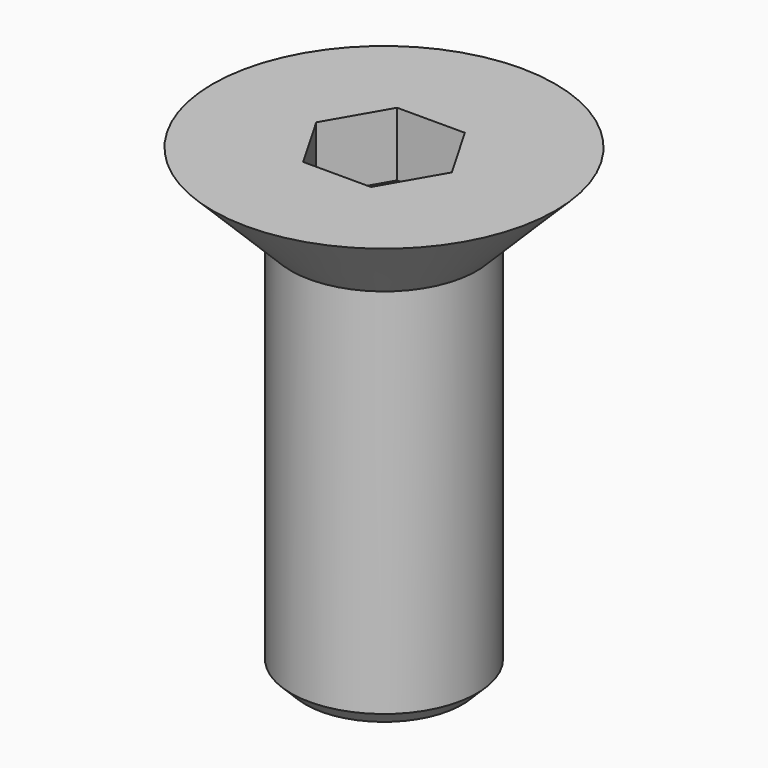
from build123d import *

# Parameters (mm, degrees)
F3_DEPTH = 1.1
F4_SIZE  = 0.25


with BuildPart() as f1:
    # F0 (on Front) → F1 (revolve)
    with BuildSketch(Plane.XZ):
        Polygon((-1.6, -4.240741), (0, -4.240741), (0, 3.759259), (-2.95, 3.759259), (-1.6, 2.409259), align=None)
    revolve(axis=Axis((0, 0, -0.240741), (0, 0, -1)))

    # F2 (on face) → F3 (cut)
    with BuildSketch(Plane.XY.offset(3.759259)):
        Polygon((0.583124, -1.01), (1.166248, 0), (0.583124, 1.01), (-0.583124, 1.01), (-1.166248, 0), (-0.583124, -1.01), align=None)
    extrude(amount=-F3_DEPTH, mode=Mode.SUBTRACT)

    # F4
    f4_edges = [f1.edges().sort_by_distance(p)[0] for p in [
        (1.6, 0, -4.240741),
    ]]
    chamfer(f4_edges, length=F4_SIZE)


solid = f1.part
